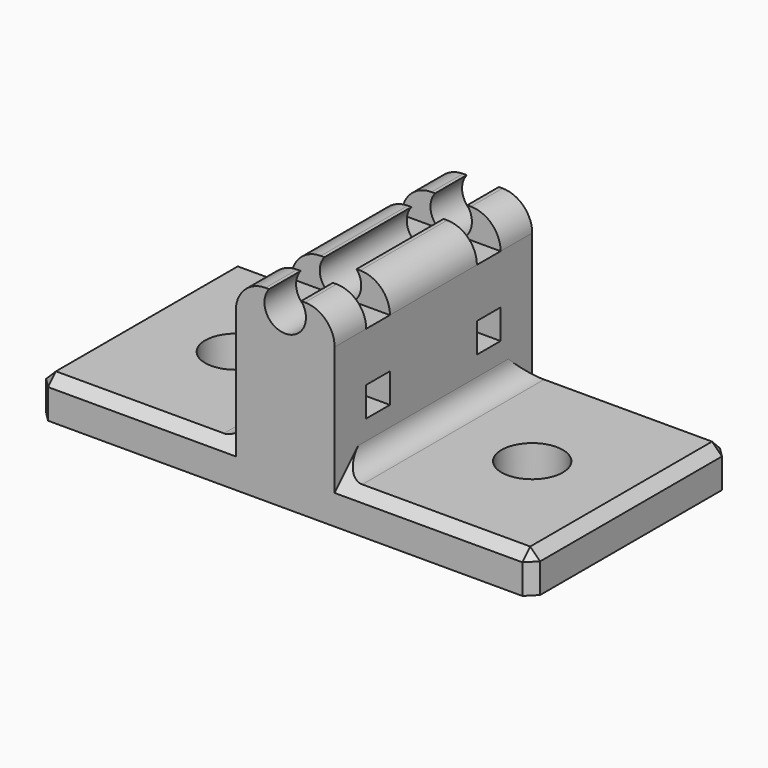
from build123d import *

# Parameters (mm, degrees)
SKETCH_W        = 50
SKETCH_H        = 25
SKETCH_R        = 3.1
PAD_DEPTH       = 4
SKETCH001_W     = 10
SKETCH001_H     = 25
PAD001_DEPTH    = 15
SKETCH002_R     = 2.1
POCKET_DEPTH    = 25.001
FILLET_R        = 3
SKETCH003_W     = 3
SKETCH003_H     = 3
POCKET001_DEPTH = 30.001
CHAMFER_SIZE    = 1
FILLET001_R     = 2


with BuildPart() as part:
    # Sketch → Pad (new body)
    with BuildSketch(Plane.XY):
        Rectangle(SKETCH_W, SKETCH_H)
        with Locations((-15, 0)):
            Circle(SKETCH_R, mode=Mode.SUBTRACT)
        with Locations((15, 0)):
            Circle(SKETCH_R, mode=Mode.SUBTRACT)
    extrude(amount=PAD_DEPTH)

    # Sketch001 (on Face8 of Pad) → Pad001 (join)
    with BuildSketch(Plane.XY.offset(4)):
        Rectangle(SKETCH001_W, SKETCH001_H)
    extrude(amount=PAD001_DEPTH)

    # Sketch002 (on Face14 of Pad001) → Pocket (cut, through all)
    with BuildSketch(Plane.XZ.offset(12.5)):
        with Locations((0, 17.669756)):
            Circle(SKETCH002_R)
    extrude(amount=-POCKET_DEPTH, mode=Mode.SUBTRACT)

    # Fillet
    fillet_edges = [part.edges().sort_by_distance(p)[0] for p in [
        (5, 0, 19),
        (-5, 0, 19),
    ]]
    fillet(fillet_edges, radius=FILLET_R)

    # Sketch003 (on Face2 of Fillet) → Pocket001 (cut, through all)
    with BuildSketch(Plane.YZ.offset(5)):
        with Locations((-7, 17.5)):
            Rectangle(SKETCH003_W, SKETCH003_H)
        with Locations((7, 17.5)):
            Rectangle(SKETCH003_W, SKETCH003_H)
        with Locations((-7, 9.5)):
            Rectangle(SKETCH003_W, SKETCH003_H)
        with Locations((7, 9.5)):
            Rectangle(SKETCH003_W, SKETCH003_H)
    extrude(amount=-POCKET001_DEPTH, mode=Mode.SUBTRACT)

    # Chamfer
    chamfer_edges = [part.edges().sort_by_distance(p)[0] for p in [
        (-25, -12.5, 2),
        (25, -12.5, 2),
        (25, 12.5, 2),
        (-25, 12.5, 2),
        (-15, 12.5, 4),
        (-25, 0, 4),
        (-15, -12.5, 4),
        (15, -12.5, 4),
        (25, 0, 4),
        (15, 12.5, 4),
    ]]
    chamfer(chamfer_edges, length=CHAMFER_SIZE)

    # Fillet001
    fillet001_edges = [part.edges().sort_by_distance(p)[0] for p in [
        (-5, 0, 4),
        (5, 0, 4),
    ]]
    fillet(fillet001_edges, radius=FILLET001_R)


solid = part.part
